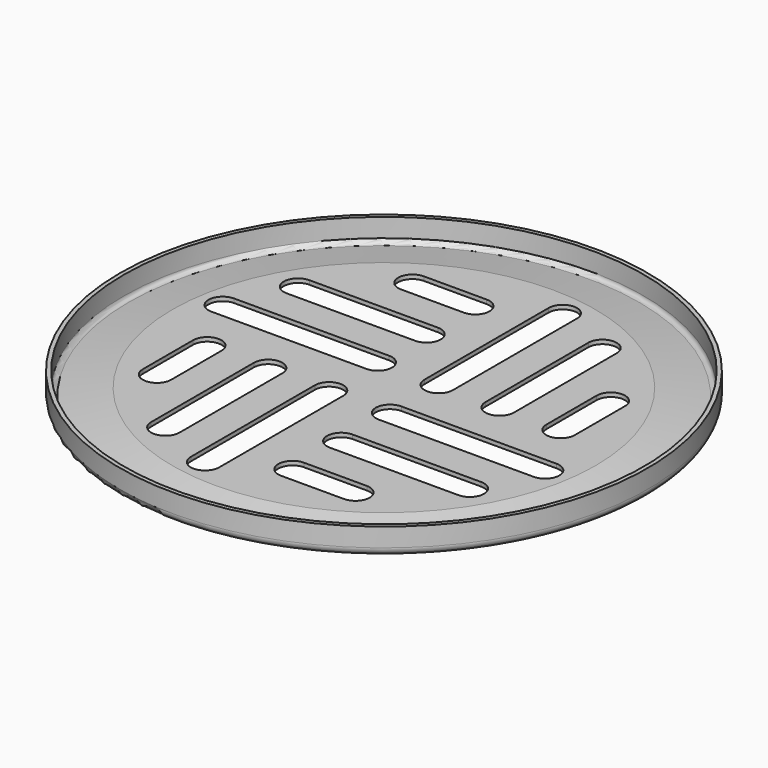
from build123d import *

# Parameters (mm, degrees)
F7_DEPTH = 1


with BuildPart() as f2:
    # F0 (on Top) → F2 (revolve)
    with BuildSketch(Plane.XY):
        Polygon((20.4473696649, 3.5921053495), (20.4473696649, 0), (50.5868457019, 0), (50.5868457019, 2.7842106991), (49.9868457019, 2.7842106991), (49.9868457019, 0.6), (21.0473696649, 0.6), (21.0473696649, 4.1921053495), (16.9026321679, 4.1921053495), (16.9026321679, 8.0605266564), (12.1578937396, 8.0605266564), (12.1578937396, 7.4605266564), (16.3026321679, 7.4605266564), (16.3026321679, 3.5921053495), align=None)
    revolve(axis=Axis((0, 5.4080549162, 0), (0, -1, 0)))


with BuildPart() as f5:
    # F4 (on Front) → F5 (revolve)
    with BuildSketch(Plane.XZ):
        with BuildLine():
            Line((-62.6527036447, -1.87835907), (-52, 0))
            Line((-52, 0), (0, 0))
            Line((0, 0), (0, 1))
            Line((0, 1), (-52.0874886635, 1))
            Line((-52.0874886635, 1), (-62.8263518223, -0.893551317))
            ThreePointArc((-62.8263518223, -0.893551317), (-63.6427876097, -0.6747880071), (-64, 0.091256436))
            Line((-64, 0.091256436), (-64, 4.7077492508))
            Line((-64, 4.7077492508), (-65, 4.7077492508))
            Line((-65, 4.7077492508), (-65, 0.091256436))
            ThreePointArc((-65, 0.091256436), (-64.2855752194, -1.4408324503), (-62.6527036447, -1.87835907))
        make_face()
    revolve(axis=Axis((0, 0, -2.1538473566), (0, 0, -1)))

    # F6 (on face) → F7 (cut)
    with BuildSketch(Plane(origin=(0, 0, 0), x_dir=(1, 0, 0), z_dir=(0, 0, -1))):
        with BuildLine():
            ThreePointArc((-4, 45.6946386352), (-7.5, 49.1946386352), (-11, 45.6946386352))
            Line((-11, 45.6946386352), (-11, 7.5))
            ThreePointArc((-11, 7.5), (-7.5, 4), (-4, 7.5))
            Line((-4, 7.5), (-4, 45.6946386352))
        make_face()
        with BuildLine():
            ThreePointArc((-19, 39.1535439009), (-22.5, 42.6535439009), (-26, 39.1535439009))
            Line((-26, 39.1535439009), (-26, 7.5))
            ThreePointArc((-26, 7.5), (-22.5, 4), (-19, 7.5))
            Line((-19, 7.5), (-19, 39.1535439009))
        make_face()
        with BuildLine():
            ThreePointArc((-34, 22.9782505862), (-37.5, 26.4782505862), (-41, 22.9782505862))
            Line((-41, 22.9782505862), (-41, 7.5))
            ThreePointArc((-41, 7.5), (-37.5, 4), (-34, 7.5))
            Line((-34, 7.5), (-34, 22.9782505862))
        make_face()
        with BuildLine():
            ThreePointArc((-45.6946386352, -4), (-49.1946386352, -7.5), (-45.6946386352, -11))
            Line((-45.6946386352, -11), (-7.5, -11))
            ThreePointArc((-7.5, -11), (-4, -7.5), (-7.5, -4))
            Line((-7.5, -4), (-45.6946386352, -4))
        make_face()
        with BuildLine():
            Line((-7.5, -19), (-39.1535439009, -19))
            ThreePointArc((-39.1535439009, -19), (-42.6535439009, -22.5), (-39.1535439009, -26))
            Line((-39.1535439009, -26), (-7.5, -26))
            ThreePointArc((-7.5, -26), (-4, -22.5), (-7.5, -19))
        make_face()
        with BuildLine():
            Line((-7.5, -34), (-22.9782505862, -34))
            ThreePointArc((-22.9782505862, -34), (-26.4782505862, -37.5), (-22.9782505862, -41))
            Line((-22.9782505862, -41), (-7.5, -41))
            ThreePointArc((-7.5, -41), (-4, -37.5), (-7.5, -34))
        make_face()
        with BuildLine():
            ThreePointArc((4, -45.6946386352), (7.5, -49.1946386352), (11, -45.6946386352))
            Line((11, -45.6946386352), (11, -7.5))
            ThreePointArc((11, -7.5), (7.5, -4), (4, -7.5))
            Line((4, -7.5), (4, -45.6946386352))
        make_face()
        with BuildLine():
            Line((19, -7.5), (19, -39.1535439009))
            ThreePointArc((19, -39.1535439009), (22.5, -42.6535439009), (26, -39.1535439009))
            Line((26, -39.1535439009), (26, -7.5))
            ThreePointArc((26, -7.5), (22.5, -4), (19, -7.5))
        make_face()
        with BuildLine():
            Line((34, -7.5), (34, -22.9782505862))
            ThreePointArc((34, -22.9782505862), (37.5, -26.4782505862), (41, -22.9782505862))
            Line((41, -22.9782505862), (41, -7.5))
            ThreePointArc((41, -7.5), (37.5, -4), (34, -7.5))
        make_face()
        with BuildLine():
            ThreePointArc((45.6946386352, 4), (49.1946386352, 7.5), (45.6946386352, 11))
            Line((45.6946386352, 11), (7.5, 11))
            ThreePointArc((7.5, 11), (4, 7.5), (7.5, 4))
            Line((7.5, 4), (45.6946386352, 4))
        make_face()
        with BuildLine():
            Line((7.5, 19), (39.1535439009, 19))
            ThreePointArc((39.1535439009, 19), (42.6535439009, 22.5), (39.1535439009, 26))
            Line((39.1535439009, 26), (7.5, 26))
            ThreePointArc((7.5, 26), (4, 22.5), (7.5, 19))
        make_face()
        with BuildLine():
            Line((7.5, 34), (22.9782505862, 34))
            ThreePointArc((22.9782505862, 34), (26.4782505862, 37.5), (22.9782505862, 41))
            Line((22.9782505862, 41), (7.5, 41))
            ThreePointArc((7.5, 41), (4, 37.5), (7.5, 34))
        make_face()
    extrude(amount=-F7_DEPTH, mode=Mode.SUBTRACT)


solid = f5.part
